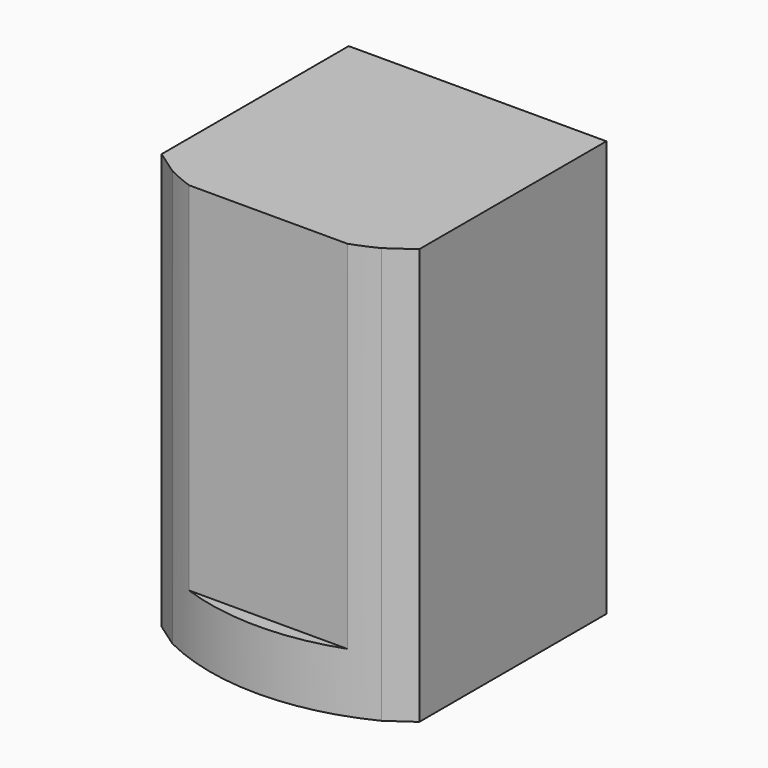
from build123d import *

# Parameters (mm, degrees)
F0_W     = 260
F0_H     = 420
F1_DEPTH = 230
F3_DEPTH = 420
F4_W     = 160
F4_H     = 76.108451
F5_DEPTH = 360


with BuildPart() as f1:
    # F0 (on Front) → F1 (new body)
    with BuildSketch(Plane.XZ):
        with Locations((130, 210)):
            Rectangle(F0_W, F0_H)
    extrude(amount=F1_DEPTH)

    # F2 (on Top) → F3 (join, through all)
    with BuildSketch(Plane.XY):
        with BuildLine():
            Line((260, -230), (0, -230))
            Line((0, -230), (0, -236))
            Line((0, -236), (24.574561, -253.207293))
            ThreePointArc((24.574561, -253.207293), (130, -278), (235.425439, -253.207293))
            Line((235.425439, -253.207293), (260, -236))
            Line((260, -236), (260, -230))
        make_face()
    extrude(amount=F3_DEPTH)

    # F4 (on face) → F5 (cut)
    with BuildSketch(Plane.XY.offset(420)):
        with Locations((130, -302.115488)):
            Rectangle(F4_W, F4_H)
    extrude(amount=-F5_DEPTH, mode=Mode.SUBTRACT)


solid = f1.part
